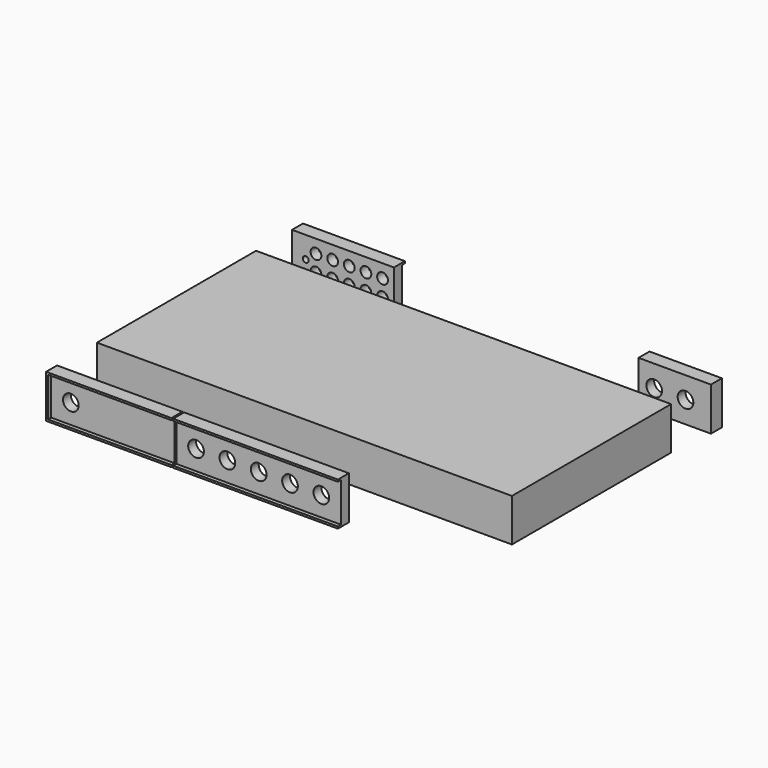
from build123d import *

# Parameters (mm, degrees)
SKETCH_W      = 423.926
SKETCH_H      = 203.2
PAD_DEPTH     = 43.688
SKETCH002_W   = 126
SKETCH002_H   = 40.2
SKETCH002_R   = 8
PAD002_DEPTH  = 10
PAD014_DEPTH  = 14
SKETCH003_W   = 168.2
SKETCH003_H   = 40.2
SKETCH003_R   = 8
PAD003_DEPTH  = 10
SKETCH013_W   = 168.2
SKETCH013_H   = 2
PAD012_DEPTH  = 14
SKETCH014_W   = 168.2
SKETCH014_H   = 2
PAD013_DEPTH  = 14
SKETCH006_W   = 72
SKETCH006_H   = 40.2
SKETCH006_R   = 8
PAD006_DEPTH  = 10
PAD011_DEPTH  = 14
SKETCH007_W   = 102.1
SKETCH007_H   = 40.2
SKETCH007_R   = 3
SKETCH007_R_2 = 5.5
PAD007_DEPTH  = 10
PAD010_DEPTH  = 14


with BuildPart() as body:
    # Sketch → Pad (new body)
    with BuildSketch(Plane.XY):
        Rectangle(SKETCH_W, SKETCH_H)
    extrude(amount=PAD_DEPTH)


with BuildPart() as front_oled_16mm:
    # Sketch002 → Pad002 (new body)
    with BuildSketch(Plane.XZ):
        with Locations((-148.963, 20.1)):
            Rectangle(SKETCH002_W, SKETCH002_H)
        with Locations((-191.863, 20.1)):
            Circle(SKETCH002_R, mode=Mode.SUBTRACT)
    extrude(amount=PAD002_DEPTH)

    # Sketch015 → Pad014 (join)
    with BuildSketch(Plane.XZ):
        Polygon((-85.963, 0), (-85.963, -2), (-213.963, -2), (-213.963, 42.2), (-85.963, 42.2), (-85.963, 40.2), (-211.963, 40.2), (-211.963, 0), align=None)
    extrude(amount=PAD014_DEPTH)


with BuildPart() as front_oled_16mm_1:
    # Body002 placement: moved
    add(front_oled_16mm.part.moved(Location((0, -150, 0))))


with BuildPart() as front_buttons_16mm:
    # Sketch003 → Pad003 (new body)
    with BuildSketch(Plane.XZ):
        with Locations((0, 20.1)):
            Rectangle(SKETCH003_W, SKETCH003_H)
        with Locations((64, 20.1)):
            Circle(SKETCH003_R, mode=Mode.SUBTRACT)
        with Locations((-64, 20.1)):
            Circle(SKETCH003_R, mode=Mode.SUBTRACT)
        with Locations((-32, 20.1)):
            Circle(SKETCH003_R, mode=Mode.SUBTRACT)
        with Locations((0, 20.1)):
            Circle(SKETCH003_R, mode=Mode.SUBTRACT)
        with Locations((32, 20.1)):
            Circle(SKETCH003_R, mode=Mode.SUBTRACT)
    extrude(amount=PAD003_DEPTH)

    # Sketch013 → Pad012 (join)
    with BuildSketch(Plane.XZ):
        with Locations((0, 41.2)):
            Rectangle(SKETCH013_W, SKETCH013_H)
    extrude(amount=PAD012_DEPTH)

    # Sketch014 → Pad013 (join)
    with BuildSketch(Plane.XZ):
        with Locations((0, -1)):
            Rectangle(SKETCH014_W, SKETCH014_H)
    extrude(amount=PAD013_DEPTH)


with BuildPart() as front_buttons_16mm_1:
    # Body003 placement: moved
    add(front_buttons_16mm.part.moved(Location((0, -150, 0))))


with BuildPart() as back_ac_16mm:
    # Sketch006 → Pad006 (new body)
    with BuildSketch(Plane.XZ):
        with Locations((175.963, 20.1)):
            Rectangle(SKETCH006_W, SKETCH006_H)
        with Locations((155.963, 20.1)):
            Circle(SKETCH006_R, mode=Mode.SUBTRACT)
        with Locations((187.963, 20.1)):
            Circle(SKETCH006_R, mode=Mode.SUBTRACT)
    extrude(amount=-PAD006_DEPTH)

    # Sketch012 → Pad011 (join)
    with BuildSketch(Plane.XZ):
        Polygon((139.963, 40.2), (139.963, 42.2), (213.963, 42.2), (213.963, -2), (139.963, -2), (139.963, 0), (211.963, 0), (211.963, 40.2), align=None)
    extrude(amount=-PAD011_DEPTH)


with BuildPart() as back_ac_16mm_1:
    # Body006 placement: moved
    add(back_ac_16mm.part.moved(Location((0, 150, 0))))


with BuildPart() as back_dc_11mm_6mm:
    # Sketch007 → Pad007 (new body)
    with BuildSketch(Plane.XZ):
        with Locations((-160.913, 20.1)):
            Rectangle(SKETCH007_W, SKETCH007_H)
        with Locations((-199.963, 20.1)):
            Circle(SKETCH007_R, mode=Mode.SUBTRACT)
        with Locations((-189.463, 11.6)):
            Circle(SKETCH007_R_2, mode=Mode.SUBTRACT)
        with Locations((-189.463, 28.6)):
            Circle(SKETCH007_R_2, mode=Mode.SUBTRACT)
        with Locations((-172.463, 28.6)):
            Circle(SKETCH007_R_2, mode=Mode.SUBTRACT)
        with Locations((-155.463, 28.6)):
            Circle(SKETCH007_R_2, mode=Mode.SUBTRACT)
        with Locations((-138.463, 28.6)):
            Circle(SKETCH007_R_2, mode=Mode.SUBTRACT)
        with Locations((-121.463, 28.6)):
            Circle(SKETCH007_R_2, mode=Mode.SUBTRACT)
        with Locations((-121.463, 11.6)):
            Circle(SKETCH007_R_2, mode=Mode.SUBTRACT)
        with Locations((-138.463, 11.6)):
            Circle(SKETCH007_R_2, mode=Mode.SUBTRACT)
        with Locations((-155.463, 11.6)):
            Circle(SKETCH007_R_2, mode=Mode.SUBTRACT)
        with Locations((-172.463, 11.6)):
            Circle(SKETCH007_R_2, mode=Mode.SUBTRACT)
    extrude(amount=-PAD007_DEPTH)

    # Sketch011 → Pad010 (join)
    with BuildSketch(Plane.XZ):
        Polygon((-109.863, 40.2), (-109.863, 42.2), (-213.963, 42.2), (-213.963, -2), (-109.863, -2), (-109.863, 0), (-211.963, 0), (-211.963, 40.2), align=None)
    extrude(amount=-PAD010_DEPTH)


with BuildPart() as back_dc_11mm_6mm_1:
    # Body007 placement: moved
    add(back_dc_11mm_6mm.part.moved(Location((0, 150, 0))))


solid = Compound([body.part, front_oled_16mm_1.part, front_buttons_16mm_1.part, back_ac_16mm_1.part, back_dc_11mm_6mm_1.part])
